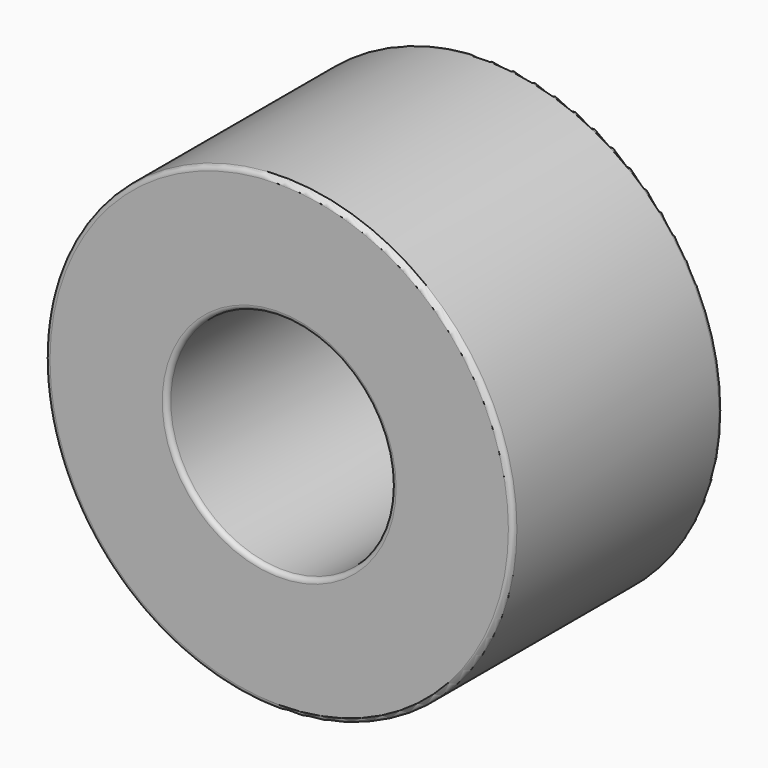
from build123d import *

# Parameters (mm, degrees)
F0_R     = 12.4968
F0_R_2   = 5.9944
F1_DEPTH = 13.9954
F2_R     = 0.254


with BuildPart() as f1:
    # F0 (on Front) → F1 (new body)
    with BuildSketch(Plane.XZ):
        Circle(F0_R)
        Circle(F0_R_2, mode=Mode.SUBTRACT)
    extrude(amount=F1_DEPTH)

    # F2
    f2_edges = [f1.edges().sort_by_distance(p)[0] for p in [
        (-12.4968, -13.9954, 0),
        (-5.9944, -13.9954, 0),
        (5.9944, -6.9977, 0),
        (-5.9944, 0, 0),
        (-12.4968, 0, 0),
    ]]
    fillet(f2_edges, radius=F2_R)


solid = f1.part
